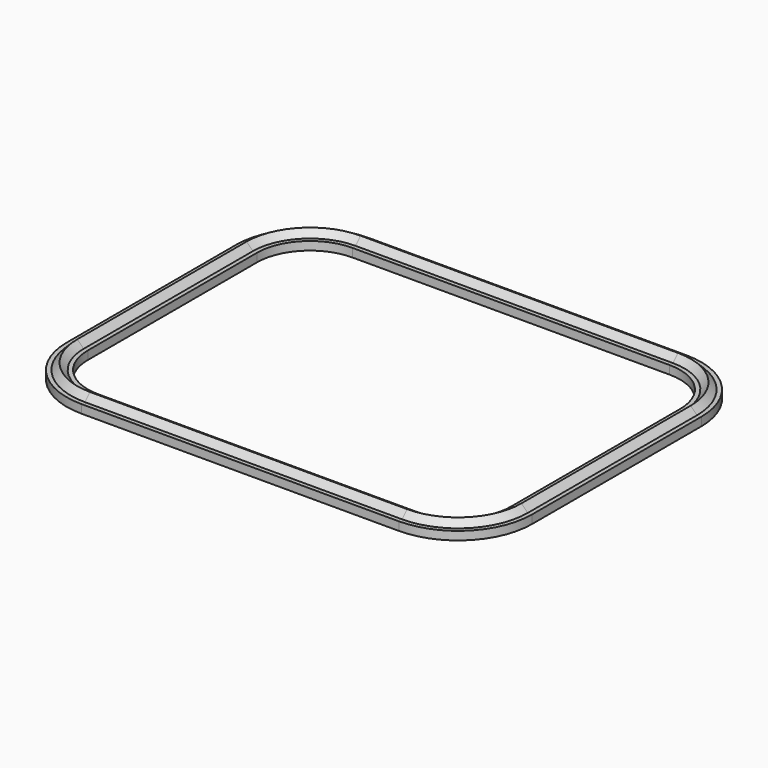
from build123d import *


with BuildPart() as f4:
    # F4: sweep along a path in F0
    with BuildLine(Plane.XY) as f4_path:
        Line((5, 0), (35, 0))
        ThreePointArc((35, 0), (38.5355339059, 1.4644660941), (40, 5))
        Line((40, 5), (40, 25))
        ThreePointArc((40, 25), (38.5355339059, 28.5355339059), (35, 30))
        Line((35, 30), (5, 30))
        ThreePointArc((5, 30), (1.4644660941, 28.5355339059), (0, 25))
        Line((0, 25), (0, 5))
        ThreePointArc((0, 5), (1.4644660941, 1.4644660941), (5, 0))
    # F3 (on line) → F4 (sweep)
    with BuildSketch(Plane.YZ.offset(20)):
        Polygon((-2, 0), (0, 0), (0, 0.8), (-0.4, 0.8), (-1, 1.4), (-1.6, 0.8), (-2, 0.8), align=None)
    sweep(path=f4_path.line)


solid = f4.part
